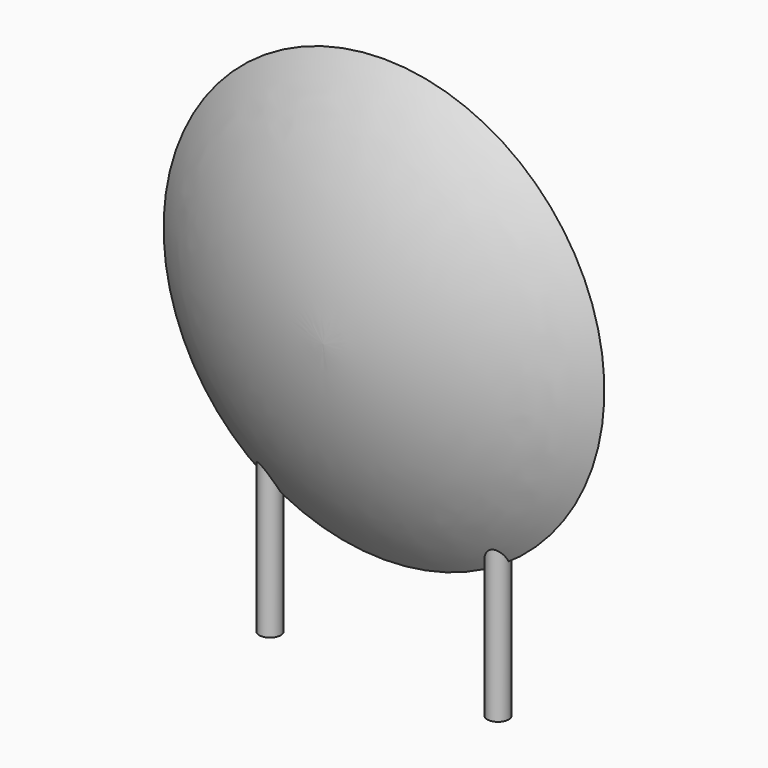
from build123d import *

# Parameters (mm, degrees)
SKETCH001_R       = 0.35
PAD001_DEPTH      = 2.9
PAD001_DEPTH_BACK = 3.2
SKETCH002_R       = 0.35
SKETCH003_R       = 0.35
SKETCH004_R       = 0.35
SKETCH005_R       = 0.35


with BuildPart() as pad001:
    # Sketch001 → Pad001 (new body, two sides)
    with BuildSketch(Plane.XY) as pad001_sk:
        Circle(SKETCH001_R)
        with Locations((7.5, 0)):
            Circle(SKETCH001_R)
    extrude(amount=PAD001_DEPTH)
    extrude(pad001_sk.sketch, amount=-PAD001_DEPTH_BACK)


with BuildPart() as revolution:
    # Sketch → Revolution (revolve)
    with BuildSketch(Plane.YZ.offset(3.75)):
        with BuildLine():
            Line((-2.5, 7.35), (2.5, 7.35))
            ThreePointArc((0, 0.1), (1.814662, 3.530289), (2.5, 7.35))
            ThreePointArc((-2.5, 7.35), (-1.814662, 3.530289), (0, 0.1))
        make_face()
    revolve(axis=Axis((3.75, -3.32079, 7.35), (0, 1, 0)))


with BuildPart() as loft_body:
    # Sketch002 → Loft section 0
    with BuildSketch(Plane.XY.offset(7.25)):
        with Locations((-2.05, 0)):
            Circle(SKETCH002_R)
    # Sketch003 → Loft section 1
    with BuildSketch(Plane.XY.offset(2.9)):
        Circle(SKETCH003_R)
    loft()


with BuildPart() as loft001:
    # Sketch004 → Loft001 section 0
    with BuildSketch(Plane.XY.offset(2.9)):
        with Locations((7.5, 0)):
            Circle(SKETCH004_R)
    # Sketch005 → Loft001 section 1
    with BuildSketch(Plane.XY.offset(7.25)):
        with Locations((9.55, 0)):
            Circle(SKETCH005_R)
    loft()


solid = Compound([pad001.part, revolution.part, loft_body.part, loft001.part])
